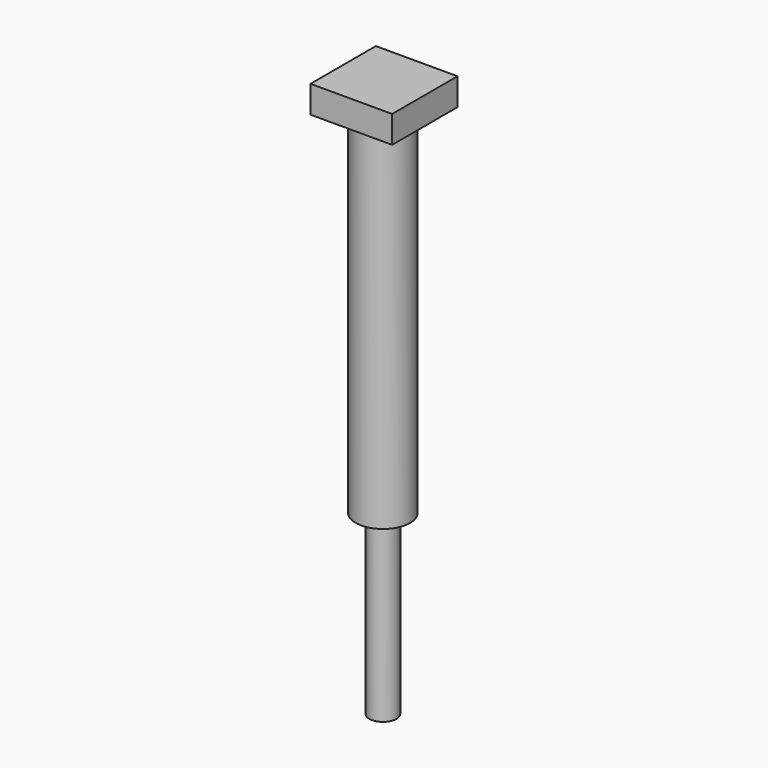
from build123d import *

# Parameters (mm, degrees)
F0_W     = 7.62
F0_H     = 7.62
F1_DEPTH = 2.54
F2_R     = 1.27
F3_DEPTH = 49.53
F4_R     = 0.254
F5_DEPTH = 2.54
F2_R_2   = 2.54
F6_DEPTH = 33.02


with BuildPart() as f1:
    # F0 (on Top) → F1 (new body)
    with BuildSketch(Plane.XY):
        with Locations((-38.795546, -21.835937)):
            Rectangle(F0_W, F0_H)
    extrude(amount=F1_DEPTH)

    # F2 (on face) → F3 (join)
    with BuildSketch(Plane(origin=(0, 0, 0), x_dir=(1, 0, 0), z_dir=(0, 0, -1))):
        with Locations((-38.854431, 21.888208)):
            Circle(F2_R)
    extrude(amount=F3_DEPTH)

    # F4 (on face) → F5 (cut)
    with BuildSketch(Plane(origin=(0, 0, -49.53), x_dir=(1, 0, 0), z_dir=(0, 0, -1))):
        with Locations((-38.854431, 21.888208)):
            Circle(F4_R)
    extrude(amount=-F5_DEPTH, mode=Mode.SUBTRACT)

    # F2 (on face) → F6 (join)
    with BuildSketch(Plane(origin=(0, 0, 0), x_dir=(1, 0, 0), z_dir=(0, 0, -1))):
        with Locations((-38.854431, 21.888208)):
            Circle(F2_R_2)
        with Locations((-38.854431, 21.888208)):
            Circle(F2_R, mode=Mode.SUBTRACT)
    extrude(amount=F6_DEPTH)


solid = f1.part
